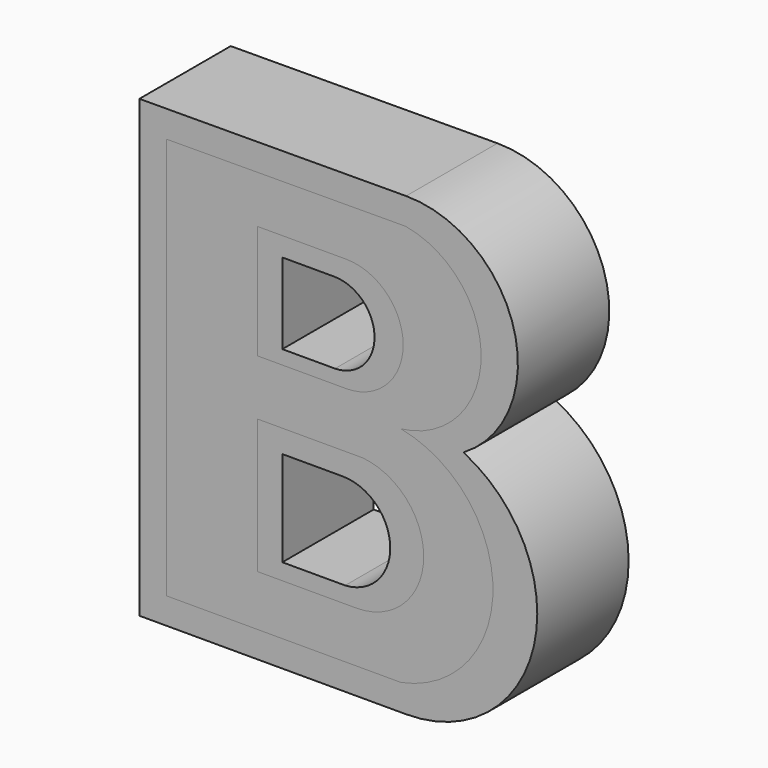
from build123d import *

# Parameters (mm, degrees)
F1_DEPTH = 25.4
F3_DEPTH = 25.4
F4_DEPTH = 53.848
F6_DEPTH = 12.7


with BuildPart() as f1:
    # F0 (on Front) → F1 (new body)
    with BuildSketch(Plane.XZ):
        with BuildLine():
            Line((-30.572927, 48.65649), (-89.897417, 48.396293))
            Line((-89.897417, 48.396293), (-89.897417, -52.819613))
            Line((-89.897417, -52.819613), (-30.572927, -52.819613))
            ThreePointArc((-30.572927, -52.819613), (-2.138348, -30.18362), (-17.823366, 2.601951))
            ThreePointArc((-17.823366, 2.601951), (-6.599701, 30.501106), (-30.572927, 48.65649))
        make_face()
    extrude(amount=F1_DEPTH)

    # F2 (on face) → F3 (cut)
    with BuildSketch(Plane.XZ):
        with BuildLine():
            Line((-46.569277, 27.679665), (-58.099557, 27.679665))
            Line((-58.099557, 27.679665), (-58.099557, 9.724027))
            Line((-58.099557, 9.724027), (-46.381809, 9.724027))
            ThreePointArc((-46.381809, 9.724027), (-37.590968, 18.794606), (-46.569277, 27.679665))
        make_face()
        with BuildLine():
            Line((-44.694602, -10.819801), (-58.099557, -10.819801))
            Line((-58.099557, -10.819801), (-58.099557, -32.003619))
            Line((-58.099557, -32.003619), (-44.132199, -32.003619))
            ThreePointArc((-44.132199, -32.003619), (-34.098962, -21.137875), (-44.694602, -10.819801))
        make_face()
    extrude(amount=-F3_DEPTH, mode=Mode.SUBTRACT)

    # F2 (on face) → F4 (cut)
    with BuildSketch(Plane.XZ):
        with BuildLine():
            Line((-46.569277, 27.679665), (-58.099557, 27.679665))
            Line((-58.099557, 27.679665), (-58.099557, 9.724027))
            Line((-58.099557, 9.724027), (-46.381809, 9.724027))
            ThreePointArc((-46.381809, 9.724027), (-37.590968, 18.794606), (-46.569277, 27.679665))
        make_face()
        with BuildLine():
            Line((-44.694602, -10.819801), (-58.099557, -10.819801))
            Line((-58.099557, -10.819801), (-58.099557, -32.003619))
            Line((-58.099557, -32.003619), (-44.132199, -32.003619))
            ThreePointArc((-44.132199, -32.003619), (-34.098962, -21.137875), (-44.694602, -10.819801))
        make_face()
    extrude(amount=F4_DEPTH, mode=Mode.SUBTRACT)


with BuildPart() as f6:
    # F5 (on face) → F6 (new body)
    with BuildSketch(Plane.XZ.offset(25.4)):
        with BuildLine():
            Line((-30.705677, 42.691864), (-83.86372, 42.458713))
            Line((-83.86372, 42.458713), (-83.86372, -46.959333))
            Line((-83.86372, -46.959333), (-31.737529, -46.959333))
            ThreePointArc((-31.737529, -46.959333), (-11.249094, -22.132434), (-31.737529, 2.694466))
            ThreePointArc((-31.737529, 2.694466), (-13.8865, 22.245954), (-30.705677, 42.691864))
        make_face()
        with BuildLine():
            Line((-41.627079, -35.627555), (-63.672543, -35.627555))
            Line((-63.672543, -35.627555), (-63.672543, -5.752861))
            Line((-63.672543, -5.752861), (-40.184855, -5.752861))
            ThreePointArc((-40.184855, -5.752861), (-26.672336, -21.377348), (-41.627079, -35.627555))
        make_face(mode=Mode.SUBTRACT)
        with BuildLine():
            Line((-63.672543, 6.609081), (-63.672543, 31.951062))
            Line((-63.672543, 31.951062), (-43.893438, 31.951062))
            ThreePointArc((-43.893438, 31.951062), (-31.222447, 19.280072), (-43.893438, 6.609081))
            Line((-43.893438, 6.609081), (-63.672543, 6.609081))
        make_face(mode=Mode.SUBTRACT)
    extrude(amount=-F6_DEPTH)


solid = Compound([f1.part, f6.part])
